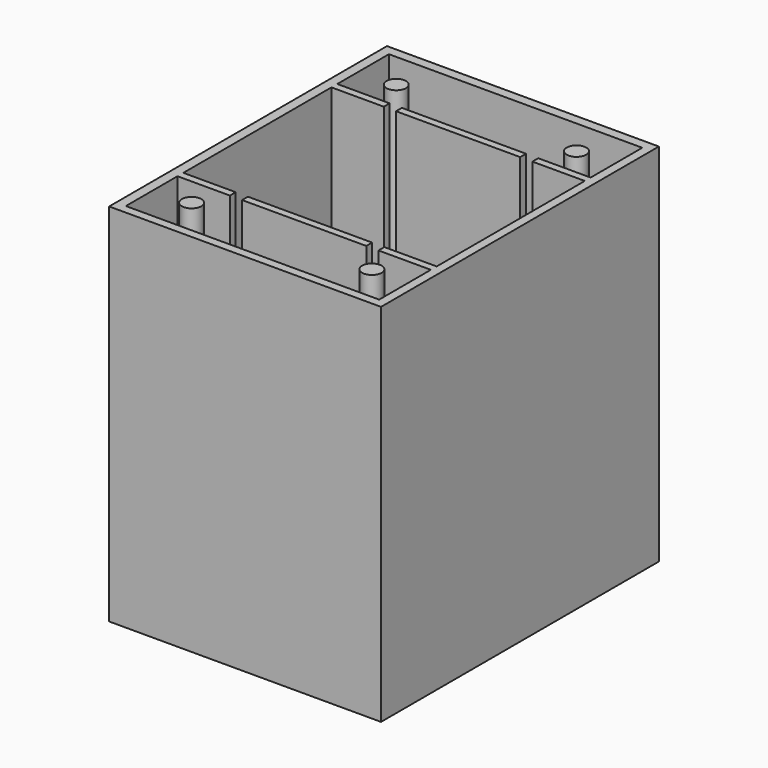
from build123d import *

# Parameters (mm, degrees)
SKETCH006_W     = 111.605694
SKETCH006_H     = 142.572304
PAD001_DEPTH    = 150
POCKET_DEPTH    = 145
SKETCH005_W     = 51
SKETCH005_H     = 3
PAD002_DEPTH    = 145
SKETCH004_R     = 4
PAD003_DEPTH    = 145
PAD_DEPTH       = 30
SKETCH008_W     = 71
SKETCH008_H     = 100
PAD004_DEPTH    = 3
SKETCH009_W     = 20
SKETCH009_H     = 4
POCKET001_DEPTH = 3.001


with BuildPart() as deck:
    # Sketch006 → Pad001 (new body)
    with BuildSketch(Plane.XY):
        with Locations((-0.197153, 0.213848)):
            Rectangle(SKETCH006_W, SKETCH006_H)
    extrude(amount=PAD001_DEPTH)

    # Sketch007 (on Face6 of Pad001) → Pocket (cut)
    with BuildSketch(Plane.XY.offset(150)):
        Polygon((-52, 67.5), (-52, 41), (-30.5, 41), (-30.5, 38), (-52, 38), (-52, -38), (-30.5, -38), (-30.5, -41), (-52, -41), (-52, -67.5), (52, -67.5), (52, -41), (30.5, -41), (30.5, -38), (52, -38), (52, 38), (30.5, 38), (30.5, 41), (52, 41), (52, 67.5), align=None)
    extrude(amount=-POCKET_DEPTH, mode=Mode.SUBTRACT)

    # Sketch005 (on Face27 of Pocket) → Pad002 (join)
    with BuildSketch(Plane.XY.offset(5)):
        with Locations((0, 39.490067)):
            Rectangle(SKETCH005_W, SKETCH005_H)
        with Locations((0, -39.490067)):
            Rectangle(SKETCH005_W, SKETCH005_H)
    extrude(amount=PAD002_DEPTH)

    # Sketch004 (on Face27 of Pad002) → Pad003 (join)
    with BuildSketch(Plane.XY.offset(5)):
        with Locations((-37, -52.5)):
            Circle(SKETCH004_R)
        with Locations((37, -52.5)):
            Circle(SKETCH004_R)
        with Locations((-37, 52.5)):
            Circle(SKETCH004_R)
        with Locations((37, 52.5)):
            Circle(SKETCH004_R)
    extrude(amount=PAD003_DEPTH)


with BuildPart() as card:
    # Sketch001 → Pad (new body)
    with BuildSketch(Plane.XY):
        with BuildLine():
            Line((-48, 35.5), (48, 35.5))
            ThreePointArc((50, 33.5), (49.414214, 34.914214), (48, 35.5))
            Line((50, 33.5), (50, -33.5))
            ThreePointArc((48, -35.5), (49.414214, -34.914214), (50, -33.5))
            Line((48, -35.5), (-48, -35.5))
            ThreePointArc((-50, -33.5), (-49.414214, -34.914214), (-48, -35.5))
            Line((-50, -33.5), (-50, 33.5))
            ThreePointArc((-48, 35.5), (-49.414214, 34.914214), (-50, 33.5))
        make_face()
    extrude(amount=PAD_DEPTH)


with BuildPart() as body002:
    # Sketch008 → Pad004 (new body)
    with BuildSketch(Plane.XY):
        Rectangle(SKETCH008_W, SKETCH008_H)
    extrude(amount=PAD004_DEPTH)

    # Sketch009 (on Face6 of Pad004) → Pocket001 (cut, through all)
    with BuildSketch(Plane.XY.offset(3)):
        with Locations((-25.5, 24)):
            Rectangle(SKETCH009_W, SKETCH009_H)
        Polygon((-11.5, 26), (0, 26), (11.5, 26), (11.5, 22), (0, 22), (-11.5, 22), align=None)
        with Locations((25.5, 24)):
            Rectangle(SKETCH009_W, SKETCH009_H)
        with Locations((-25.5, -24)):
            Rectangle(SKETCH009_W, SKETCH009_H)
        Polygon((-11.5, -26), (0, -26), (11.5, -26), (11.5, -22), (0, -22), (-11.5, -22), align=None)
        with Locations((25.5, -24)):
            Rectangle(SKETCH009_W, SKETCH009_H)
    extrude(amount=-POCKET001_DEPTH, mode=Mode.SUBTRACT)


solid = Compound([deck.part, card.part, body002.part])
